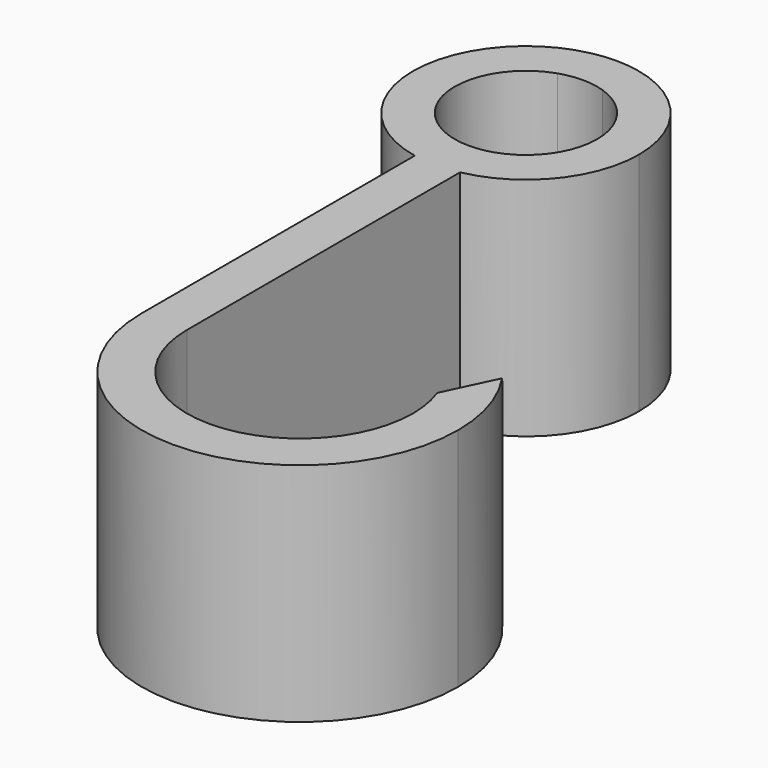
from build123d import *

# Parameters (mm, degrees)
F1_DEPTH = 20
F2_SIZE2 = 7
F2_SIZE  = 8
F3_R     = 3


with BuildPart() as f1:
    # F0 (on Top) → F1 (new body)
    with BuildSketch(Plane.XY):
        with BuildLine():
            ThreePointArc((2, 5.9741108125), (5.1132181647, 3.6803532439), (6.3, 0))
            ThreePointArc((6.3, 0), (5.1132181647, -3.6803532439), (2, -5.9741108125))
            Line((2, -5.9741108125), (2, -9.7979589711))
            ThreePointArc((2, -9.7979589711), (7.7459666924, -6.3245553203), (10, 0))
            ThreePointArc((10, 0), (7.7459666924, 6.3245553203), (2, 9.7979589711))
            Line((2, 9.7979589711), (2, 5.9741108125))
        make_face()
        with BuildLine():
            ThreePointArc((-2, 5.9741108125), (0, 6.3), (2, 5.9741108125))
            Line((2, 5.9741108125), (2, 9.7979589711))
            ThreePointArc((2, 9.7979589711), (0, 10), (-2, 9.7979589711))
            Line((-2, 9.7979589711), (-2, 5.9741108125))
        make_face()
        with BuildLine():
            ThreePointArc((-2, -5.9741108125), (-6.3, 0), (-2, 5.9741108125))
            Line((-2, 5.9741108125), (-2, 9.7979589711))
            ThreePointArc((-2, 9.7979589711), (-10, 0), (-2, -9.7979589711))
            Line((-2, -9.7979589711), (-2, -5.9741108125))
        make_face()
        with BuildLine():
            Line((2, -9.7979589711), (2, -5.9741108125))
            ThreePointArc((2, -5.9741108125), (0, -6.3), (-2, -5.9741108125))
            Line((-2, -5.9741108125), (-2, -9.7979589711))
            ThreePointArc((-2, -9.7979589711), (0, -10), (2, -9.7979589711))
        make_face()
        with BuildLine():
            Line((2, -30.2020410289), (2, -9.7979589711))
            ThreePointArc((2, -9.7979589711), (0, -10), (-2, -9.7979589711))
            Line((-2, -9.7979589711), (-2, -40))
            ThreePointArc((-2, -40), (-0.9614813968, -34.7084973779), (2, -30.2020410289))
        make_face()
        with BuildLine():
            Line((2, -40), (2, -30.2020410289))
            ThreePointArc((2, -30.2020410289), (-0.9614813968, -34.7084973779), (-2, -40))
            Line((-2, -40), (2, -40))
        make_face()
        with BuildLine():
            Line((2, -40), (-2, -40))
            ThreePointArc((-2, -40), (12, -54), (26, -40))
            ThreePointArc((26, -40), (23.8321595662, -32.5166852265), (18, -27.3508893593))
            Line((18, -27.3508893593), (16.2857142857, -30.9649209709))
            ThreePointArc((16.2857142857, -30.9649209709), (20.4515425473, -34.6547751618), (22, -40))
            ThreePointArc((22, -40), (12, -50), (2, -40))
        make_face()
    extrude(amount=F1_DEPTH)

    # F2
    f2_edges = [f1.edges().sort_by_distance(p)[0] for p in [
        (17.142857, -29.157905, 20),
        (17.142857, -29.157905, 0),
    ]]
    f2_side = f1.faces().sort_by_distance((17.142857, -29.157905, 10))[0]
    chamfer(f2_edges, length=F2_SIZE, length2=F2_SIZE2, reference=f2_side)

    # F3
    f3_edges = [f1.edges().sort_by_distance(p)[0] for p in [
        (17.142857, -29.157905, 12),
        (17.142857, -29.157905, 8),
    ]]
    fillet(f3_edges, radius=F3_R)


solid = f1.part
